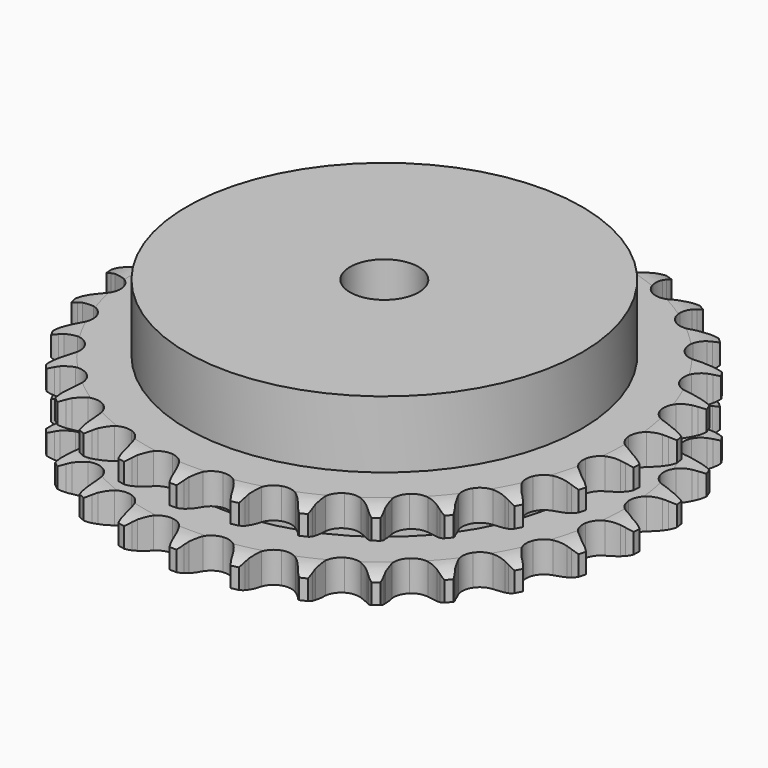
from build123d import *

# Parameters (mm, degrees)
PAD_DEPTH         = 25.5
SKETCH001_R       = 57.5
PAD001_DEPTH      = 45
SKETCH002_R       = 10
POCKET_DEPTH      = 0.001
POCKET_DEPTH_BACK = 45.001


with BuildPart() as part:
    # Sprocket → Pad (new body)
    with BuildSketch(Plane.XY):
        with BuildLine():
            ThreePointArc((-8.475496, 77.930902), (-7.262722, 76.507234), (-6.399868, 74.847977))
            Line((-6.399868, 74.847977), (-5.904596, 73.557748))
            ThreePointArc((-5.904596, 73.557748), (-5.118224, 71.872693), (-4.104053, 70.314088))
            ThreePointArc((-4.104053, 70.314088), (-2.292248, 68.809991), (0, 68.270966))
            ThreePointArc((0, 68.270966), (2.292248, 68.809991), (4.104053, 70.314088))
            ThreePointArc((4.104053, 70.314088), (5.118224, 71.872693), (5.904596, 73.557748))
            Line((5.904596, 73.557748), (6.399868, 74.847977))
            ThreePointArc((6.399868, 74.847977), (7.262722, 76.507234), (8.475496, 77.930902))
            ThreePointArc((8.475496, 77.930902), (9.35387, 76.279808), (9.83986, 74.473855))
            Line((9.83986, 74.473855), (10.046192, 73.107322))
            ThreePointArc((10.046192, 73.107322), (10.451942, 71.292616), (11.107348, 69.552434))
            ThreePointArc((11.107348, 69.552434), (12.553458, 67.694017), (14.67624, 66.674829))
            ThreePointArc((14.67624, 66.674829), (17.03077, 66.708486), (19.123553, 67.787934))
            Line((19.123553, 67.787934), (21.579291, 70.568695))
            ThreePointArc((21.579291, 70.568695), (21.944792, 71.155406), (22.340345, 71.72229))
            ThreePointArc((22.340345, 71.72229), (23.539717, 73.157267), (25.030184, 74.286939))
            ThreePointArc((25.030184, 74.286939), (25.533086, 72.485623), (25.619487, 70.617419))
            Line((25.619487, 70.617419), (25.527231, 69.23848))
            ThreePointArc((25.527231, 69.23848), (25.533386, 67.378976), (25.799382, 65.538585))
            ThreePointArc((25.799382, 65.538585), (26.812177, 63.412746), (28.666235, 61.961051))
            ThreePointArc((28.666235, 61.961051), (30.972953, 61.487766), (33.248857, 62.092091))
            Line((33.248857, 62.092091), (36.244963, 64.279929))
            ThreePointArc((36.244963, 64.279929), (36.728044, 64.774351), (37.236213, 65.242949))
            ThreePointArc((37.236213, 65.242949), (38.716022, 66.386547), (40.414488, 67.169402))
            ThreePointArc((40.414488, 67.169402), (40.518403, 65.30209), (40.201175, 63.45899))
            Line((40.201175, 63.45899), (39.814645, 62.132122))
            ThreePointArc((39.814645, 62.132122), (39.420918, 60.31477), (39.285065, 58.460225))
            ThreePointArc((39.285065, 58.460225), (39.81719, 56.166366), (41.315828, 54.350043))
            ThreePointArc((41.315828, 54.350043), (43.466875, 53.391947), (45.819481, 53.492891))
            Line((45.819481, 53.492891), (49.21586, 54.985504))
            ThreePointArc((49.21586, 54.985504), (49.793933, 55.364518), (50.390956, 55.71292))
            ThreePointArc((50.390956, 55.71292), (52.082008, 56.511666), (53.909056, 56.911099))
            ThreePointArc((53.909056, 56.911099), (53.609124, 55.065105), (52.903101, 53.33329))
            Line((52.903101, 53.33329), (52.24037, 52.120536))
            ThreePointArc((52.24037, 52.120536), (51.465171, 50.430312), (50.933822, 48.64833))
            ThreePointArc((50.933822, 48.64833), (50.960394, 46.293708), (52.03354, 44.197687))
            ThreePointArc((52.03354, 44.197687), (53.928334, 42.79958), (56.247638, 42.392423))
            Line((56.247638, 42.392423), (59.885479, 43.120018))
            ThreePointArc((59.885479, 43.120018), (60.531514, 43.365903), (61.189475, 43.577817))
            ThreePointArc((61.189475, 43.577817), (63.012697, 43.994363), (64.882896, 43.991695))
            ThreePointArc((64.882896, 43.991695), (64.193143, 42.253336), (63.131337, 40.713785))
            Line((63.131337, 40.713785), (62.223394, 39.671852))
            ThreePointArc((62.223394, 39.671852), (61.10297, 38.187789), (60.200971, 36.561693))
            ThreePointArc((60.200971, 36.561693), (59.720747, 34.256409), (60.318221, 31.978697))
            ThreePointArc((60.318221, 31.978697), (61.868164, 30.205952), (64.045717, 29.309732))
            Line((64.045717, 29.309732), (67.754919, 29.238289))
            ThreePointArc((67.754919, 29.238289), (68.438708, 29.339546), (69.126841, 29.405064))
            ThreePointArc((69.126841, 29.405064), (70.996983, 29.419932), (72.822884, 29.015289))
            ThreePointArc((72.822884, 29.015289), (71.775561, 27.465849), (70.407621, 26.190548))
            Line((70.407621, 26.190548), (69.296921, 25.368155))
            ThreePointArc((69.296921, 25.368155), (67.883663, 24.159647), (66.653189, 22.765471))
            ThreePointArc((66.653189, 22.765471), (65.688625, 20.617318), (65.782489, 18.264418))
            ThreePointArc((65.782489, 18.264418), (66.915107, 16.199927), (68.84909, 14.856551))
            Line((68.84909, 14.856551), (72.456214, 13.989409))
            ThreePointArc((72.456214, 13.989409), (73.145784, 13.941305), (73.831913, 13.857362))
            ThreePointArc((73.831913, 13.857362), (75.661529, 13.469858), (77.357755, 12.68216))
            ThreePointArc((77.357755, 12.68216), (76.001834, 11.394089), (74.391724, 10.44267))
            Line((74.391724, 10.44267), (73.130201, 9.878272))
            ThreePointArc((73.130201, 9.878272), (71.49019, 9.001827), (69.988778, 7.904762))
            ThreePointArc((69.988778, 7.904762), (68.584975, 6.014184), (68.170841, 3.696116))
            ThreePointArc((68.170841, 3.696116), (68.833175, 1.436412), (70.433155, -0.291306))
            Line((70.433155, -0.291306), (73.769538, -1.9136))
            ThreePointArc((73.769538, -1.9136), (74.432645, -2.108816), (75.084688, -2.338294))
            ThreePointArc((75.084688, -2.338294), (76.788225, -3.110052), (78.275463, -4.243972))
            ThreePointArc((78.275463, -4.243972), (76.674345, -5.210446), (74.897352, -5.793496))
            Line((74.897352, -5.793496), (73.543994, -6.073508))
            ThreePointArc((73.543994, -6.073508), (71.753916, -6.576908), (70.051769, -7.325565))
            ThreePointArc((70.051769, -7.325565), (68.274368, -8.870167), (67.3716, -11.045013))
            ThreePointArc((67.3716, -11.045013), (67.532679, -13.394269), (68.723845, -15.425542))
            Line((68.723845, -15.425542), (71.63348, -17.727131))
            ThreePointArc((71.63348, -17.727131), (72.239117, -18.060332), (72.826585, -18.424615))
            ThreePointArc((72.826585, -18.424615), (74.32439, -19.54454), (75.533098, -20.971661))
            ThreePointArc((75.533098, -20.971661), (73.76165, -21.571347), (71.900863, -21.758764))
            Line((71.900863, -21.758764), (70.518952, -21.741297))
            ThreePointArc((70.518952, -21.741297), (68.662508, -21.848115), (66.839218, -22.213357))
            ThreePointArc((66.839218, -22.213357), (64.771328, -23.339758), (63.422138, -25.269689))
            ThreePointArc((63.422138, -25.269689), (63.074431, -27.598648), (63.801084, -29.838496))
            Line((63.801084, -29.838496), (66.147919, -32.711761))
            ThreePointArc((66.147919, -32.711761), (66.66777, -33.167366), (67.163192, -33.64942))
            ThreePointArc((67.163192, -33.64942), (68.385229, -35.065146), (69.258889, -36.718739))
            ThreePointArc((69.258889, -36.718739), (67.399941, -36.923595), (65.54237, -36.706616))
            Line((65.54237, -36.706616), (64.196522, -36.392488))
            ThreePointArc((64.196522, -36.392488), (62.360518, -36.097728), (60.501339, -36.062477))
            ThreePointArc((60.501339, -36.062477), (58.239652, -36.718009), (56.507127, -38.312783))
            ThreePointArc((56.507127, -38.312783), (55.666892, -40.512545), (55.895056, -42.856236))
            Line((55.895056, -42.856236), (57.569356, -46.166826))
            ThreePointArc((57.569356, -46.166826), (57.979111, -46.723531), (58.359324, -47.300817))
            ThreePointArc((58.359324, -47.300817), (59.24845, -48.946145), (59.746211, -50.748889))
            ThreePointArc((59.746211, -50.748889), (57.886687, -50.549337), (56.119188, -49.938108))
            Line((56.119188, -49.938108), (54.872333, -49.342006))
            ThreePointArc((54.872333, -49.342006), (53.14262, -48.659451), (51.334484, -48.225356))
            ThreePointArc((51.334484, -48.225356), (48.984755, -48.379366), (46.949906, -49.564414))
            ThreePointArc((46.949906, -49.564414), (45.656432, -51.532121), (45.375437, -53.870066))
            Line((45.375437, -53.870066), (46.298914, -57.463181))
            ThreePointArc((46.298914, -57.463181), (46.579413, -58.094956), (46.826638, -58.740479))
            ThreePointArc((46.826638, -58.740479), (47.34128, -60.538477), (47.439867, -62.406078))
            ThreePointArc((47.439867, -62.406078), (45.666715, -61.811448), (44.071936, -60.834549))
            Line((44.071936, -60.834549), (42.982376, -59.984347))
            ThreePointArc((42.982376, -59.984347), (41.439831, -58.945912), (39.767287, -58.133271))
            ThreePointArc((39.767287, -58.133271), (37.439385, -57.778557), (35.19736, -58.498467))
            ThreePointArc((35.19736, -58.498467), (33.511127, -60.142111), (32.734112, -62.364991))
            Line((32.734112, -62.364991), (32.863586, -66.072621))
            ThreePointArc((32.863586, -66.072621), (33.001714, -66.749925), (33.10439, -67.433503))
            ThreePointArc((33.10439, -67.433503), (33.220484, -69.300097), (32.915287, -71.145227))
            ThreePointArc((32.915287, -71.145227), (31.311418, -70.183325), (29.963929, -68.886435))
            Line((29.963929, -68.886435), (29.08261, -67.821887))
            ThreePointArc((29.08261, -67.821887), (27.799362, -66.476128), (26.340615, -65.322938))
            ThreePointArc((26.340615, -65.322938), (24.143391, -64.476088), (21.799024, -64.697197))
            ThreePointArc((21.799024, -64.697197), (19.798879, -65.939924), (18.562177, -67.943799))
            Line((18.562177, -67.943799), (17.891593, -71.59258))
            ThreePointArc((17.891593, -71.59258), (17.880892, -72.283742), (17.834218, -72.97341))
            ThreePointArc((17.834218, -72.97341), (17.546335, -74.821321), (16.851625, -76.557705))
            ThreePointArc((16.851625, -76.557705), (15.492035, -75.273507), (14.454842, -73.717267))
            Line((14.454842, -73.717267), (13.822974, -72.48815))
            ThreePointArc((13.822974, -72.48815), (12.859026, -70.897995), (11.682285, -69.458178))
            ThreePointArc((11.682285, -69.458178), (9.718479, -68.158788), (7.38139, -67.870759))
            ThreePointArc((7.38139, -67.870759), (5.160858, -68.654459), (3.522295, -70.34563))
            Line((3.522295, -70.34563), (2.083009, -73.764949))
            ThreePointArc((2.083009, -73.764949), (1.923978, -74.437652), (1.730138, -75.101162))
            ThreePointArc((1.730138, -75.101162), (1.05174, -76.843984), (0, -78.39043))
            ThreePointArc((0, -78.39043), (-1.05174, -76.843984), (-1.730138, -75.101162))
            Line((-1.730138, -75.101162), (-2.083009, -73.764949))
            ThreePointArc((-2.083009, -73.764949), (-2.682584, -72.004749), (-3.522295, -70.34563))
            ThreePointArc((-3.522295, -70.34563), (-5.160858, -68.654459), (-7.38139, -67.870759))
            ThreePointArc((-7.38139, -67.870759), (-9.718479, -68.158788), (-11.682285, -69.458178))
            Line((-11.682285, -69.458178), (-13.822974, -72.48815))
            ThreePointArc((-13.822974, -72.48815), (-14.122898, -73.110939), (-14.454842, -73.717267))
            ThreePointArc((-14.454842, -73.717267), (-15.492035, -75.273507), (-16.851625, -76.557705))
            ThreePointArc((-16.851625, -76.557705), (-17.546335, -74.821321), (-17.834218, -72.97341))
            Line((-17.834218, -72.97341), (-17.891593, -71.59258))
            ThreePointArc((-17.891593, -71.59258), (-18.098759, -69.744642), (-18.562177, -67.943799))
            ThreePointArc((-18.562177, -67.943799), (-19.798879, -65.939924), (-21.799024, -64.697197))
            ThreePointArc((-21.799024, -64.697197), (-24.143391, -64.476088), (-26.340615, -65.322938))
            Line((-26.340615, -65.322938), (-29.08261, -67.821887))
            ThreePointArc((-29.08261, -67.821887), (-29.509403, -68.365641), (-29.963929, -68.886435))
            ThreePointArc((-29.963929, -68.886435), (-31.311418, -70.183325), (-32.915287, -71.145227))
            ThreePointArc((-32.915287, -71.145227), (-33.220484, -69.300097), (-33.10439, -67.433503))
            Line((-33.10439, -67.433503), (-32.863586, -66.072621))
            ThreePointArc((-32.863586, -66.072621), (-32.668657, -64.223353), (-32.734112, -62.364991))
            ThreePointArc((-32.734112, -62.364991), (-33.511127, -60.142111), (-35.19736, -58.498467))
            ThreePointArc((-35.19736, -58.498467), (-37.439385, -57.778557), (-39.767287, -58.133271))
            Line((-39.767287, -58.133271), (-42.982376, -59.984347))
            ThreePointArc((-42.982376, -59.984347), (-43.516082, -60.42364), (-44.071936, -60.834549))
            ThreePointArc((-44.071936, -60.834549), (-45.666715, -61.811448), (-47.439867, -62.406078))
            ThreePointArc((-47.439867, -62.406078), (-47.34128, -60.538477), (-46.826638, -58.740479))
            Line((-46.826638, -58.740479), (-46.298914, -57.463181))
            ThreePointArc((-46.298914, -57.463181), (-45.711004, -55.699051), (-45.375437, -53.870066))
            ThreePointArc((-45.375437, -53.870066), (-45.656432, -51.532121), (-46.949906, -49.564414))
            ThreePointArc((-46.949906, -49.564414), (-48.984755, -48.379366), (-51.334484, -48.225356))
            Line((-51.334484, -48.225356), (-54.872333, -49.342006))
            ThreePointArc((-54.872333, -49.342006), (-55.487996, -49.656298), (-56.119188, -49.938108))
            ThreePointArc((-56.119188, -49.938108), (-57.886687, -50.549337), (-59.746211, -50.748889))
            ThreePointArc((-59.746211, -50.748889), (-59.24845, -48.946145), (-58.359324, -47.300817))
            Line((-58.359324, -47.300817), (-57.569356, -46.166826))
            ThreePointArc((-57.569356, -46.166826), (-56.615956, -44.570323), (-55.895056, -42.856236))
            ThreePointArc((-55.895056, -42.856236), (-55.666892, -40.512545), (-56.507127, -38.312783))
            ThreePointArc((-56.507127, -38.312783), (-58.239652, -36.718009), (-60.501339, -36.062477))
            Line((-60.501339, -36.062477), (-64.196522, -36.392488))
            ThreePointArc((-64.196522, -36.392488), (-64.865354, -36.567082), (-65.54237, -36.706616))
            ThreePointArc((-65.54237, -36.706616), (-67.399941, -36.923595), (-69.258889, -36.718739))
            ThreePointArc((-69.258889, -36.718739), (-68.385229, -35.065146), (-67.163192, -33.64942))
            Line((-67.163192, -33.64942), (-66.147919, -32.711761))
            ThreePointArc((-66.147919, -32.711761), (-64.873608, -31.357537), (-63.801084, -29.838496))
            ThreePointArc((-63.801084, -29.838496), (-63.074431, -27.598648), (-63.422138, -25.269689))
            ThreePointArc((-63.422138, -25.269689), (-64.771328, -23.339758), (-66.839218, -22.213357))
            Line((-66.839218, -22.213357), (-70.518952, -21.741297))
            ThreePointArc((-70.518952, -21.741297), (-71.20968, -21.768031), (-71.900863, -21.758764))
            ThreePointArc((-71.900863, -21.758764), (-73.76165, -21.571347), (-75.533098, -20.971661))
            ThreePointArc((-75.533098, -20.971661), (-74.32439, -19.54454), (-72.826585, -18.424615))
            Line((-72.826585, -18.424615), (-71.63348, -17.727131))
            ThreePointArc((-71.63348, -17.727131), (-70.097843, -16.678507), (-68.723845, -15.425542))
            ThreePointArc((-68.723845, -15.425542), (-67.532679, -13.394269), (-67.3716, -11.045013))
            ThreePointArc((-67.3716, -11.045013), (-68.274368, -8.870167), (-70.051769, -7.325565))
            Line((-70.051769, -7.325565), (-73.543994, -6.073508))
            ThreePointArc((-73.543994, -6.073508), (-74.22432, -5.95113), (-74.897352, -5.793496))
            ThreePointArc((-74.897352, -5.793496), (-76.674345, -5.210446), (-78.275463, -4.243972))
            ThreePointArc((-78.275463, -4.243972), (-76.788225, -3.110052), (-75.084688, -2.338294))
            Line((-75.084688, -2.338294), (-73.769538, -1.9136))
            ThreePointArc((-73.769538, -1.9136), (-72.04438, -1.219609), (-70.433155, -0.291306))
            ThreePointArc((-70.433155, -0.291306), (-68.833175, 1.436412), (-68.170841, 3.696116))
            ThreePointArc((-68.170841, 3.696116), (-68.584975, 6.014184), (-69.988778, 7.904762))
            Line((-69.988778, 7.904762), (-73.130201, 9.878272))
            ThreePointArc((-73.130201, 9.878272), (-73.768314, 10.144039), (-74.391724, 10.44267))
            ThreePointArc((-74.391724, 10.44267), (-76.001834, 11.394089), (-77.357755, 12.68216))
            ThreePointArc((-77.357755, 12.68216), (-75.661529, 13.469858), (-73.831913, 13.857362))
            Line((-73.831913, 13.857362), (-72.456214, 13.989409))
            ThreePointArc((-72.456214, 13.989409), (-70.622203, 14.296317), (-68.84909, 14.856551))
            ThreePointArc((-68.84909, 14.856551), (-66.915107, 16.199927), (-65.782489, 18.264418))
            ThreePointArc((-65.782489, 18.264418), (-65.688625, 20.617318), (-66.653189, 22.765471))
            Line((-66.653189, 22.765471), (-69.296921, 25.368155))
            ThreePointArc((-69.296921, 25.368155), (-69.862983, 25.764884), (-70.407621, 26.190548))
            ThreePointArc((-70.407621, 26.190548), (-71.775561, 27.465849), (-72.822884, 29.015289))
            ThreePointArc((-72.822884, 29.015289), (-70.996983, 29.419932), (-69.126841, 29.405064))
            Line((-69.126841, 29.405064), (-67.754919, 29.238289))
            ThreePointArc((-67.754919, 29.238289), (-65.897809, 29.143763), (-64.045717, 29.309732))
            ThreePointArc((-64.045717, 29.309732), (-61.868164, 30.205952), (-60.318221, 31.978697))
            ThreePointArc((-60.318221, 31.978697), (-59.720747, 34.256409), (-60.200971, 36.561693))
            Line((-60.200971, 36.561693), (-62.223394, 39.671852))
            ThreePointArc((-62.223394, 39.671852), (-62.690937, 40.180992), (-63.131337, 40.713785))
            ThreePointArc((-63.131337, 40.713785), (-64.193143, 42.253336), (-64.882896, 43.991695))
            ThreePointArc((-64.882896, 43.991695), (-63.012697, 43.994363), (-61.189475, 43.577817))
            Line((-61.189475, 43.577817), (-59.885479, 43.120018))
            ThreePointArc((-59.885479, 43.120018), (-58.092107, 42.628479), (-56.247638, 42.392423))
            ThreePointArc((-56.247638, 42.392423), (-53.928334, 42.79958), (-52.03354, 44.197687))
            ThreePointArc((-52.03354, 44.197687), (-50.960394, 46.293708), (-50.933822, 48.64833))
            Line((-50.933822, 48.64833), (-52.24037, 52.120536))
            ThreePointArc((-52.24037, 52.120536), (-52.587532, 52.718281), (-52.903101, 53.33329))
            ThreePointArc((-52.903101, 53.33329), (-53.609124, 55.065105), (-53.909056, 56.911099))
            ThreePointArc((-53.909056, 56.911099), (-52.082008, 56.511666), (-50.390956, 55.71292))
            Line((-50.390956, 55.71292), (-49.21586, 54.985504))
            ThreePointArc((-49.21586, 54.985504), (-47.570083, 54.119935), (-45.819481, 53.492891))
            ThreePointArc((-45.819481, 53.492891), (-43.466875, 53.391947), (-41.315828, 54.350043))
            ThreePointArc((-41.315828, 54.350043), (-39.81719, 56.166366), (-39.285065, 58.460225))
            Line((-39.285065, 58.460225), (-39.814645, 62.132122))
            ThreePointArc((-39.814645, 62.132122), (-40.025193, 62.790522), (-40.201175, 63.45899))
            ThreePointArc((-40.201175, 63.45899), (-40.518403, 65.30209), (-40.414488, 67.169402))
            ThreePointArc((-40.414488, 67.169402), (-38.716022, 66.386547), (-37.236213, 65.242949))
            Line((-37.236213, 65.242949), (-36.244963, 64.279929))
            ThreePointArc((-36.244963, 64.279929), (-34.823735, 63.080803), (-33.248857, 62.092091))
            ThreePointArc((-33.248857, 62.092091), (-30.972953, 61.487766), (-28.666235, 61.961051))
            ThreePointArc((-28.666235, 61.961051), (-26.812177, 63.412746), (-25.799382, 65.538585))
            Line((-25.799382, 65.538585), (-25.527231, 69.23848))
            ThreePointArc((-25.527231, 69.23848), (-25.59132, 69.926747), (-25.619487, 70.617419))
            ThreePointArc((-25.619487, 70.617419), (-25.533086, 72.485623), (-25.030184, 74.286939))
            ThreePointArc((-25.030184, 74.286939), (-23.539717, 73.157267), (-22.340345, 71.72229))
            Line((-22.340345, 71.72229), (-21.579291, 70.568695))
            ThreePointArc((-21.579291, 70.568695), (-20.449067, 69.092082), (-19.123553, 67.787934))
            ThreePointArc((-19.123553, 67.787934), (-17.03077, 66.708486), (-14.67624, 66.674829))
            ThreePointArc((-14.67624, 66.674829), (-12.553458, 67.694017), (-11.107348, 69.552434))
            Line((-11.107348, 69.552434), (-10.046192, 73.107322))
            ThreePointArc((-10.046192, 73.107322), (-9.960826, 73.793276), (-9.83986, 74.473855))
            ThreePointArc((-9.83986, 74.473855), (-9.35387, 76.279808), (-8.475496, 77.930902))
        make_face()
    extrude(amount=PAD_DEPTH)

    # Sketch → Groove (revolve, cut)
    with BuildSketch(Plane.XZ):
        with BuildLine():
            ThreePointArc((69.925762, 0), (73.50347, 0.405129), (76.9, 1.6))
            Line((76.9, 1.6), (76.9, 7.4))
            ThreePointArc((76.9, 7.4), (73.50347, 8.594871), (69.925762, 9))
            Line((57.5, 9), (69.925762, 9))
            Line((57.5, 16.5), (57.5, 9))
            Line((69.925762, 16.5), (57.5, 16.5))
            ThreePointArc((69.925762, 16.5), (73.50347, 16.905129), (76.9, 18.1))
            Line((76.9, 18.1), (76.9, 23.9))
            ThreePointArc((76.9, 23.9), (73.50347, 25.094871), (69.925762, 25.5))
            Line((69.925762, 25.5), (79.925762, 25.5))
            Line((79.925762, 25.5), (79.925762, 0))
            Line((69.925762, 0), (79.925762, 0))
        make_face()
    revolve(axis=Axis((0, 0, 0), (0, 0, 1)), mode=Mode.SUBTRACT)

    # Sketch001 → Pad001 (join)
    with BuildSketch(Plane.XY):
        Circle(SKETCH001_R)
    extrude(amount=PAD001_DEPTH)

    # Sketch002 → Pocket (cut, two sides)
    with BuildSketch(Plane.XY) as pocket_sk:
        Circle(SKETCH002_R)
    extrude(amount=-POCKET_DEPTH, mode=Mode.SUBTRACT)
    extrude(pocket_sk.sketch, amount=POCKET_DEPTH_BACK, mode=Mode.SUBTRACT)


solid = part.part
